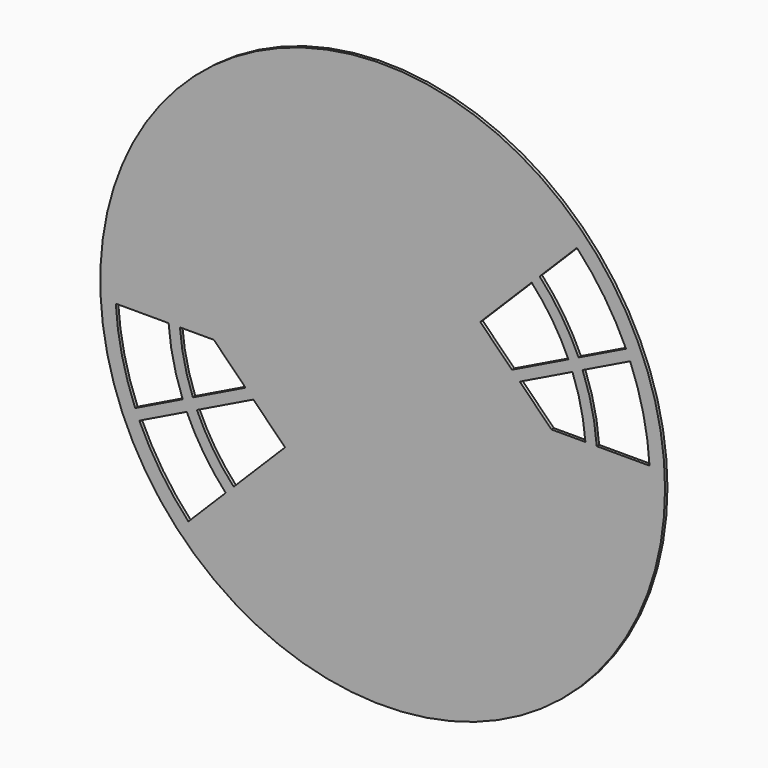
from build123d import *

# Parameters (mm, degrees)
F2_R     = 375
F3_DEPTH = 4


with BuildPart() as f3:
    # F2 (on Front) → F3 (new body)
    with BuildSketch(Plane.XZ):
        Circle(F2_R)
        with BuildLine():
            Line((-208.472408, -194.330273), (-257.994363, -243.852227))
            ThreePointArc((-257.994363, -243.852227), (-294.542846, -198.165365), (-323.09098, -147.095951))
            ThreePointArc((-323.09098, -147.095951), (-325.931626, -140.68964), (-328.645262, -134.228506))
            ThreePointArc((-328.645262, -134.228506), (-346.228029, -78.429281), (-354.407604, -20.5))
            Line((-354.407604, -20.5), (-284.261763, -20.5))
            Line((-284.261763, -20.5), (-269.220634, -20.5))
            Line((-269.220634, -20.5), (-224.146725, -20.5))
            Line((-224.146725, -20.5), (-182.106396, -62.751174))
            Line((-182.106396, -62.751174), (-171.671771, -73.238132))
            Line((-171.671771, -73.238132), (-129.631442, -115.489306))
            Line((-129.631442, -115.489306), (-197.858908, -183.716772))
            Line((-197.858908, -183.716772), (-208.472408, -194.330273))
        make_face(mode=Mode.SUBTRACT)
        with BuildLine():
            Line((269.220634, 20.5), (224.146725, 20.5))
            Line((224.146725, 20.5), (182.106396, 62.751174))
            Line((182.106396, 62.751174), (171.671771, 73.238132))
            Line((171.671771, 73.238132), (129.631442, 115.489306))
            Line((129.631442, 115.489306), (197.858908, 183.716772))
            Line((197.858908, 183.716772), (208.472408, 194.330273))
            Line((208.472408, 194.330273), (257.994363, 243.852227))
            ThreePointArc((257.994363, 243.852227), (294.542846, 198.165365), (323.09098, 147.095951))
            ThreePointArc((323.09098, 147.095951), (325.931626, 140.68964), (328.645262, 134.228506))
            ThreePointArc((328.645262, 134.228506), (346.228029, 78.429281), (354.407604, 20.5))
            Line((354.407604, 20.5), (284.261763, 20.5))
            Line((284.261763, 20.5), (269.220634, 20.5))
        make_face(mode=Mode.SUBTRACT)
        with BuildLine():
            ThreePointArc((-252.02906, -96.857385), (-249.428243, -103.370941), (-246.65912, -109.814746))
            Line((-246.65912, -109.814746), (-171.671771, -73.238132))
            Line((-171.671771, -73.238132), (-182.106396, -62.751174))
            Line((-182.106396, -62.751174), (-252.02906, -96.857385))
        make_face()
        with BuildLine():
            ThreePointArc((-284.261763, -20.5), (-278.021979, -62.679972), (-265.559141, -103.456959))
            Line((-265.559141, -103.456959), (-252.02906, -96.857385))
            ThreePointArc((-252.02906, -96.857385), (-263.406385, -59.304945), (-269.220634, -20.5))
            Line((-269.220634, -20.5), (-284.261763, -20.5))
        make_face()
        with BuildLine():
            ThreePointArc((-328.645262, -134.228506), (-325.931626, -140.68964), (-323.09098, -147.095951))
            Line((-323.09098, -147.095951), (-260.148635, -116.394534))
            Line((-260.148635, -116.394534), (-246.65912, -109.814746))
            ThreePointArc((-246.65912, -109.814746), (-249.428243, -103.370941), (-252.02906, -96.857385))
            Line((-252.02906, -96.857385), (-265.559141, -103.456959))
            Line((-265.559141, -103.456959), (-328.645262, -134.228506))
        make_face()
        with BuildLine():
            ThreePointArc((-260.148635, -116.394534), (-237.528768, -157.4963), (-208.472408, -194.330273))
            Line((-208.472408, -194.330273), (-197.858908, -183.716772))
            ThreePointArc((-197.858908, -183.716772), (-225.309668, -148.780218), (-246.65912, -109.814746))
            Line((-246.65912, -109.814746), (-260.148635, -116.394534))
        make_face()
        with BuildLine():
            ThreePointArc((197.858908, 183.716772), (225.309668, 148.780218), (246.65912, 109.814746))
            Line((246.65912, 109.814746), (260.148635, 116.394534))
            ThreePointArc((260.148635, 116.394534), (237.528768, 157.4963), (208.472408, 194.330273))
            Line((208.472408, 194.330273), (197.858908, 183.716772))
        make_face()
        with BuildLine():
            Line((171.671771, 73.238132), (182.106396, 62.751174))
            Line((182.106396, 62.751174), (252.02906, 96.857385))
            ThreePointArc((252.02906, 96.857385), (249.428243, 103.370941), (246.65912, 109.814746))
            Line((246.65912, 109.814746), (171.671771, 73.238132))
        make_face()
        with BuildLine():
            ThreePointArc((252.02906, 96.857385), (263.406385, 59.304945), (269.220634, 20.5))
            Line((269.220634, 20.5), (284.261763, 20.5))
            ThreePointArc((284.261763, 20.5), (278.021979, 62.679972), (265.559141, 103.456959))
            Line((265.559141, 103.456959), (252.02906, 96.857385))
        make_face()
        with BuildLine():
            ThreePointArc((246.65912, 109.814746), (249.428243, 103.370941), (252.02906, 96.857385))
            Line((252.02906, 96.857385), (265.559141, 103.456959))
            Line((265.559141, 103.456959), (328.645262, 134.228506))
            ThreePointArc((328.645262, 134.228506), (325.931626, 140.68964), (323.09098, 147.095951))
            Line((323.09098, 147.095951), (260.148635, 116.394534))
            Line((260.148635, 116.394534), (246.65912, 109.814746))
        make_face()
    extrude(amount=F3_DEPTH)


solid = f3.part
